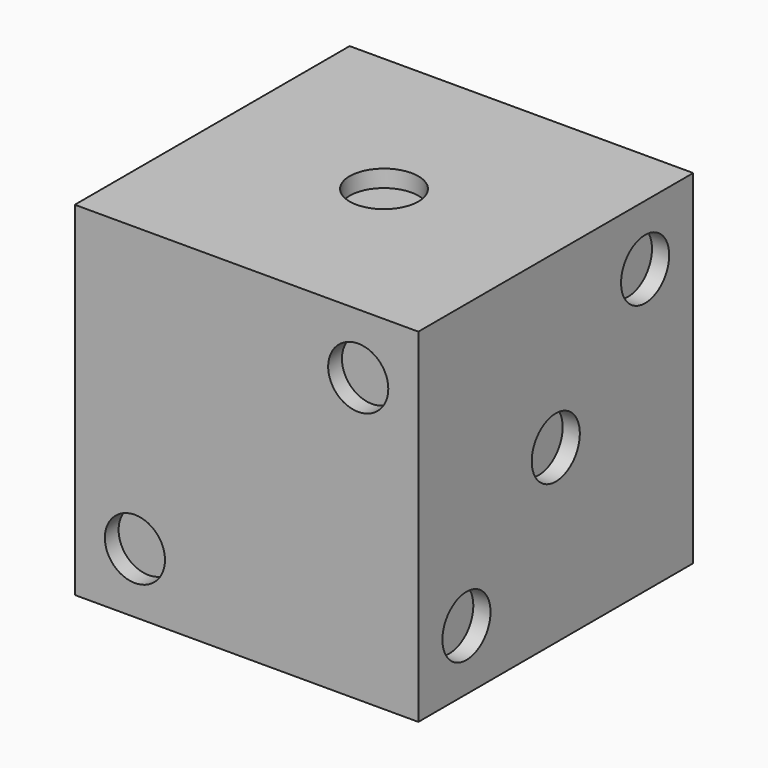
from build123d import *

# Parameters (mm, degrees)
F0_W      = 127
F0_H      = 127
F1_DEPTH  = 127
F2_R      = 12.7
F3_DEPTH  = 6.35
F4_R      = 11.1125
F5_DEPTH  = 6.35
F6_R      = 11.1125
F7_DEPTH  = 6.35
F8_R      = 11.1125
F9_DEPTH  = 6.35
F10_R     = 11.1125
F11_DEPTH = 6.35
F12_R     = 11.1125
F13_DEPTH = 6.35


with BuildPart() as f1:
    # F0 (on Top) → F1 (new body)
    with BuildSketch(Plane.XY):
        with Locations((63.5, 63.5)):
            Rectangle(F0_W, F0_H)
    extrude(amount=F1_DEPTH)

    # F2 (on face) → F3 (cut)
    with BuildSketch(Plane.XY.offset(127)):
        with Locations((63.5, 63.5)):
            Circle(F2_R)
    extrude(amount=-F3_DEPTH, mode=Mode.SUBTRACT)

    # F4 (on face) → F5 (cut)
    with BuildSketch(Plane.XZ):
        with Locations((22.225, 22.225)):
            Circle(F4_R)
        with Locations((104.775, 104.775)):
            Circle(F4_R)
    extrude(amount=-F5_DEPTH, mode=Mode.SUBTRACT)

    # F6 (on face) → F7 (cut)
    with BuildSketch(Plane.YZ.offset(127)):
        with Locations((63.5, 63.5)):
            Circle(F6_R)
        with Locations((22.225, 22.225)):
            Circle(F6_R)
        with Locations((104.775, 104.775)):
            Circle(F6_R)
    extrude(amount=-F7_DEPTH, mode=Mode.SUBTRACT)

    # F8 (on face) → F9 (cut)
    with BuildSketch(Plane(origin=(0, 0, 0), x_dir=(0, -1, 0), z_dir=(-1, 0, 0))):
        with Locations((-104.775, 104.775)):
            Circle(F8_R)
        with Locations((-104.775, 22.225)):
            Circle(F8_R)
        with Locations((-22.225, 104.775)):
            Circle(F8_R)
        with Locations((-22.225, 22.225)):
            Circle(F8_R)
    extrude(amount=-F9_DEPTH, mode=Mode.SUBTRACT)

    # F10 (on face) → F11 (cut)
    with BuildSketch(Plane(origin=(0, 127, 0), x_dir=(-1, 0, 0), z_dir=(0, 1, 0))):
        with Locations((-104.775, 104.775)):
            Circle(F10_R)
        with Locations((-63.5, 63.5)):
            Circle(F10_R)
        with Locations((-22.225, 22.225)):
            Circle(F10_R)
        with Locations((-104.775, 22.225)):
            Circle(F10_R)
        with Locations((-22.225, 104.775)):
            Circle(F10_R)
    extrude(amount=-F11_DEPTH, mode=Mode.SUBTRACT)

    # F12 (on face) → F13 (cut)
    with BuildSketch(Plane(origin=(0, 0, 0), x_dir=(1, 0, 0), z_dir=(0, 0, -1))):
        with Locations((104.775, -104.775)):
            Circle(F12_R)
        with Locations((104.775, -63.5)):
            Circle(F12_R)
        with Locations((104.775, -22.225)):
            Circle(F12_R)
        with Locations((22.225, -63.5)):
            Circle(F12_R)
        with Locations((22.225, -104.775)):
            Circle(F12_R)
        with Locations((22.225, -20.063723)):
            Circle(F12_R)
    extrude(amount=-F13_DEPTH, mode=Mode.SUBTRACT)


solid = f1.part
